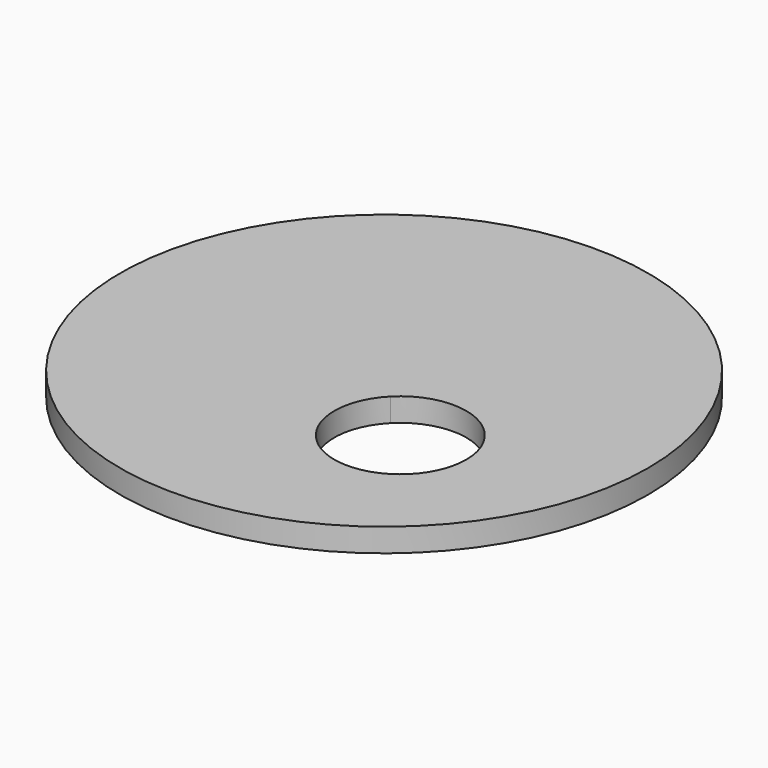
from build123d import *

# Parameters (mm, degrees)
F0_R     = 57.15
F1_DEPTH = 5.08
F3_DEPTH = 6.35


with BuildPart() as f1:
    # F0 (on Top) → F1 (new body)
    with BuildSketch(Plane.XY):
        Circle(F0_R)
    extrude(amount=F1_DEPTH)

    # F2 (on face) → F3 (cut)
    with BuildSketch(Plane.XY.offset(5.08)):
        with BuildLine():
            ThreePointArc((31.207365, -16.755695), (22.355264, -3.542478), (6.767946, -6.702278))
            Line((6.767946, -6.702278), (16.919865, -16.755695))
            Line((16.919865, -16.755695), (27.071784, -26.809112))
            ThreePointArc((27.071784, -26.809112), (30.133082, -22.191094), (31.207365, -16.755695))
        make_face()
        with BuildLine():
            Line((16.919865, -16.755695), (6.767946, -6.702278))
            ThreePointArc((6.767946, -6.702278), (6.866448, -26.907614), (27.071784, -26.809112))
            Line((27.071784, -26.809112), (16.919865, -16.755695))
        make_face()
    extrude(amount=-F3_DEPTH, mode=Mode.SUBTRACT)


solid = f1.part
